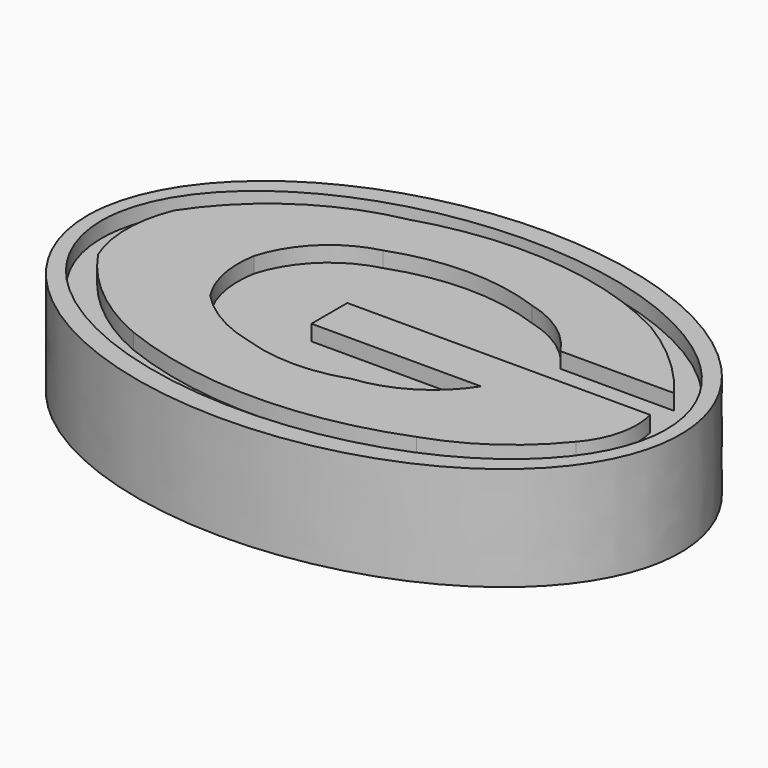
from build123d import *

# Parameters (mm, degrees)
F1_DEPTH = 25.4
F2_DEPTH = 21.59
F3_DEPTH = 25.4


with BuildPart() as f1:
    # F0 (on Top) → F1 (new body)
    with BuildSketch(Plane.XY):
        with BuildLine():
            add(Edge.make_bspline(
                [(-72.471589, 11.305676), (-72.471589, -74.546038), (36.235794, -31.620181), (144.943178, 11.305676), (36.235794, 54.231533), (-72.471589, 97.15739), (-72.471589, 11.305676)],
                knots=[0, 0, 0, 2.094395, 2.094395, 4.18879, 4.18879, 6.283185, 6.283185, 6.283185], degree=2, weights=[1, 0.5, 1, 0.5, 1, 0.5, 1]))
        make_face()
        with BuildLine():
            add(Edge.make_bspline(
                [(-69.04503, 11.305676), (-69.04503, -65.922539), (34.522515, -27.308431), (138.090059, 11.305676), (34.522515, 49.919783), (-69.04503, 88.53389), (-69.04503, 11.305676)],
                knots=[0, 0, 0, 2.094395, 2.094395, 4.18879, 4.18879, 6.283185, 6.283185, 6.283185], degree=2, weights=[1, 0.5, 1, 0.5, 1, 0.5, 1]))
        make_face(mode=Mode.SUBTRACT)
    extrude(amount=F1_DEPTH)

    # F0 (on Top) → F2 (join)
    with BuildSketch(Plane.XY):
        with BuildLine():
            add(Edge.make_bspline(
                [(-69.04503, 11.305676), (-69.04503, -65.922539), (34.522515, -27.308431), (138.090059, 11.305676), (34.522515, 49.919783), (-69.04503, 88.53389), (-69.04503, 11.305676)],
                knots=[0, 0, 0, 2.094395, 2.094395, 4.18879, 4.18879, 6.283185, 6.283185, 6.283185], degree=2, weights=[1, 0.5, 1, 0.5, 1, 0.5, 1]))
        make_face()
        with BuildLine():
            ThreePointArc((9.080363, -9.93895), (21.174543, -5.829969), (30.324988, 3.081949))
            Line((30.324988, 3.081949), (-11.136296, 3.081949))
            Line((-11.136296, 3.081949), (-11.136296, 14.046918))
            Line((-11.136296, 14.046918), (62.87723, 14.046918))
            ThreePointArc((62.87723, 14.046918), (63.003025, 4.795863), (58.765374, -3.4285))
            ThreePointArc((58.765374, -3.4285), (47.520589, -13.972791), (33.75154, -20.903919))
            ThreePointArc((33.75154, -20.903919), (-0.85664, -27.472183), (-35.46482, -20.903919))
            ThreePointArc((-35.46482, -20.903919), (-49.652684, -12.283132), (-60.821306, 0))
            ThreePointArc((-60.821306, 0), (-63.140712, 11.649305), (-60.821306, 23.29861))
            ThreePointArc((-60.821306, 23.29861), (-44.673656, 39.578807), (-23.471884, 48.312441))
            ThreePointArc((-23.471884, 48.312441), (8.977137, 51.768539), (40.261995, 42.487305))
            ThreePointArc((40.261995, 42.487305), (51.438706, 34.197516), (60.82131, 23.921027))
            Line((60.82131, 23.921027), (33.066228, 23.921027))
            ThreePointArc((33.066228, 23.921027), (26.083849, 31.12182), (16.961435, 35.291545))
            ThreePointArc((16.961435, 35.291545), (-1.199293, 38.510029), (-19.360021, 35.291545))
            ThreePointArc((-19.360021, 35.291545), (-30.557405, 29.105043), (-37.178095, 18.15878))
            ThreePointArc((-37.178095, 18.15878), (-37.063137, 8.712066), (-33.408888, 0))
            ThreePointArc((-33.408888, 0), (-25.406228, -6.261892), (-15.933473, -9.93895))
            ThreePointArc((-15.933473, -9.93895), (-3.426555, -12.025754), (9.080363, -9.93895))
        make_face(mode=Mode.SUBTRACT)
    extrude(amount=F2_DEPTH)

    # F0 (on Top) → F3 (join)
    with BuildSketch(Plane.XY):
        with BuildLine():
            Line((-11.136296, 3.081949), (30.324988, 3.081949))
            ThreePointArc((30.324988, 3.081949), (21.174543, -5.829969), (9.080363, -9.93895))
            ThreePointArc((9.080363, -9.93895), (-3.426555, -12.025754), (-15.933473, -9.93895))
            ThreePointArc((-15.933473, -9.93895), (-25.406228, -6.261892), (-33.408888, 0))
            ThreePointArc((-33.408888, 0), (-37.063137, 8.712066), (-37.178095, 18.15878))
            ThreePointArc((-37.178095, 18.15878), (-30.557405, 29.105043), (-19.360021, 35.291545))
            ThreePointArc((-19.360021, 35.291545), (-1.199293, 38.510029), (16.961435, 35.291545))
            ThreePointArc((16.961435, 35.291545), (26.083849, 31.12182), (33.066228, 23.921027))
            Line((33.066228, 23.921027), (60.82131, 23.921027))
            ThreePointArc((60.82131, 23.921027), (51.438706, 34.197516), (40.261995, 42.487305))
            ThreePointArc((40.261995, 42.487305), (8.977137, 51.768539), (-23.471884, 48.312441))
            ThreePointArc((-23.471884, 48.312441), (-44.673656, 39.578807), (-60.821306, 23.29861))
            ThreePointArc((-60.821306, 23.29861), (-63.140712, 11.649305), (-60.821306, 0))
            ThreePointArc((-60.821306, 0), (-49.652684, -12.283132), (-35.46482, -20.903919))
            ThreePointArc((-35.46482, -20.903919), (-0.85664, -27.472183), (33.75154, -20.903919))
            ThreePointArc((33.75154, -20.903919), (47.520589, -13.972791), (58.765374, -3.4285))
            ThreePointArc((58.765374, -3.4285), (63.003025, 4.795863), (62.87723, 14.046918))
            Line((62.87723, 14.046918), (-11.136296, 14.046918))
            Line((-11.136296, 14.046918), (-11.136296, 3.081949))
        make_face()
    extrude(amount=F3_DEPTH)


solid = f1.part
